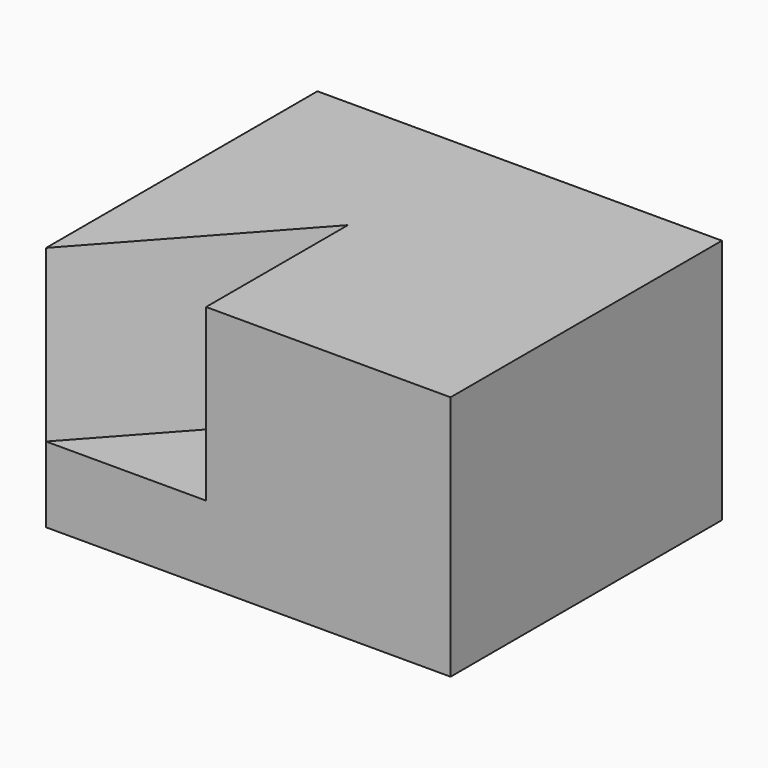
from build123d import *

# Parameters (mm, degrees)
F0_W     = 60.269747
F0_H     = 50.542671
F1_DEPTH = 36.65792
F3_DEPTH = 25.4


with BuildPart() as f1:
    # F0 (on Top) → F1 (new body)
    with BuildSketch(Plane.XY):
        with Locations((6.293992, -1.144362)):
            Rectangle(F0_W, F0_H)
    extrude(amount=F1_DEPTH)

    # F2 (on face) → F3 (cut)
    with BuildSketch(Plane.XY.offset(36.65792)):
        Polygon((0, 0), (-23.840882, -26.415698), (0, -26.415698), align=None)
    extrude(amount=-F3_DEPTH, mode=Mode.SUBTRACT)


solid = f1.part
